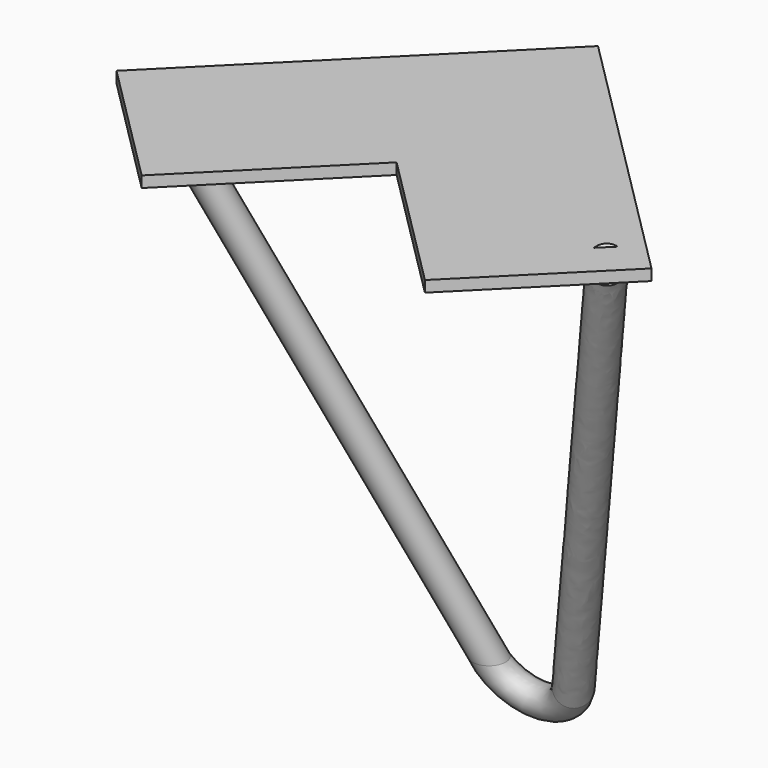
from build123d import *

# Parameters (mm, degrees)
F1_DEPTH = 3.175
F6_R     = 4.7625


with BuildPart() as f1:
    # F0 (on Top) → F1 (new body)
    with BuildSketch(Plane.XY):
        Polygon((76.332177, 0), (0, 76.332177), (-76.332177, 0), (-40.411153, -35.921024), (0, 4.490128), (40.411153, -35.921024), align=None)
    extrude(amount=F1_DEPTH)

    # F7: sweep along a path in F5
    with BuildLine(Plane(origin=(0, 0, 0), x_dir=(1, 0, 0), z_dir=(0, -0.939693, -0.34202))) as f7_path:
        Line((-63.632177, 0), (-12.038401, -153.526296))
        ThreePointArc((-12.038401, -153.526296), (0, -162.180693), (12.038401, -153.526296))
        Line((12.038401, -153.526296), (63.632177, 0))
    # F6 (on face) → F7 (sweep)
    with BuildSketch(Plane(origin=(0, 0, 0), x_dir=(1, 0, 0), z_dir=(0, 0, -1))):
        with Locations((-63.632177, 0)):
            Circle(F6_R)
    sweep(path=f7_path.line)


solid = f1.part
